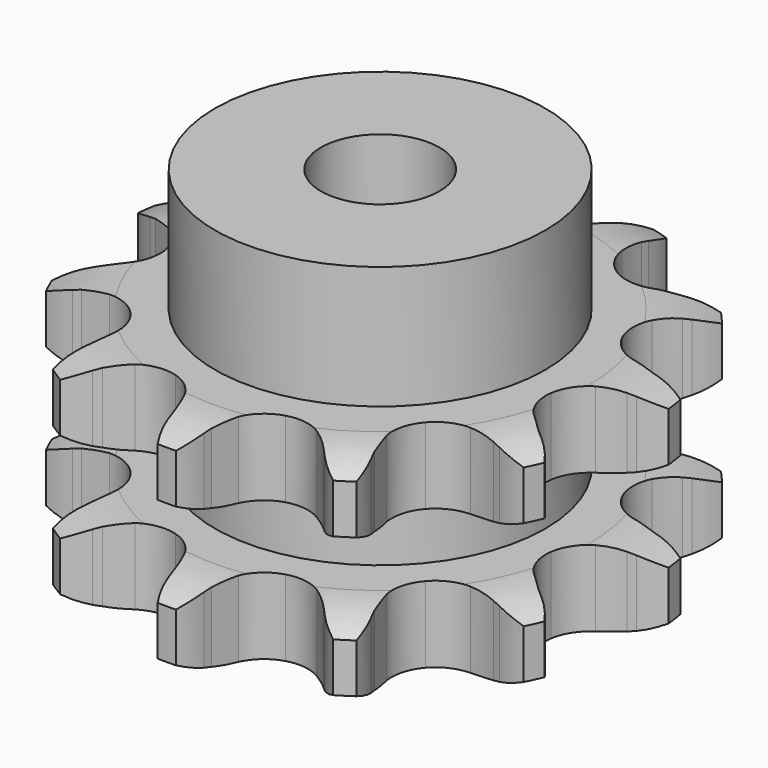
from build123d import *

# Parameters (mm, degrees)
PAD_DEPTH         = 25.5
SKETCH001_R       = 19.5
PAD001_DEPTH      = 40
SKETCH002_R       = 7
POCKET_DEPTH      = 0.001
POCKET_DEPTH_BACK = 40.001


with BuildPart() as part:
    # Sprocket → Pad (new body)
    with BuildSketch(Plane.XY):
        with BuildLine():
            ThreePointArc((-9.271424, 31.575569), (-7.404692, 30.088528), (-6.018207, 28.145944))
            Line((-6.018207, 28.145944), (-5.582333, 27.310258))
            ThreePointArc((-5.582333, 27.310258), (-4.817807, 26.026363), (-3.913797, 24.836551))
            ThreePointArc((-3.913797, 24.836551), (-2.155229, 23.503703), (0, 23.030383))
            ThreePointArc((0, 23.030383), (2.155229, 23.503703), (3.913797, 24.836551))
            ThreePointArc((3.913797, 24.836551), (4.817807, 26.026363), (5.582333, 27.310258))
            Line((5.582333, 27.310258), (6.018207, 28.145944))
            ThreePointArc((6.018207, 28.145944), (7.404692, 30.088528), (9.271424, 31.575569))
            ThreePointArc((9.271424, 31.575569), (10.037863, 29.31536), (10.154008, 26.931564))
            Line((10.154008, 26.931564), (10.068882, 25.992888))
            ThreePointArc((10.068882, 25.992888), (10.017917, 24.499473), (10.135157, 23.009794))
            ThreePointArc((10.135157, 23.009794), (10.893967, 20.937778), (12.451165, 19.374391))
            ThreePointArc((12.451165, 19.374391), (14.520155, 18.607368), (16.720148, 18.777877))
            Line((16.720148, 18.777877), (19.461198, 19.956813))
            ThreePointArc((19.461198, 19.956813), (19.866291, 20.197768), (20.279684, 20.424186))
            ThreePointArc((20.279684, 20.424186), (22.49631, 21.308802), (24.870659, 21.550549))
            ThreePointArc((24.870659, 21.550549), (24.293468, 19.234772), (23.102398, 17.166602))
            Line((23.102398, 17.166602), (22.523299, 16.42296))
            ThreePointArc((22.523299, 16.42296), (21.673023, 15.194173), (20.966271, 13.877591))
            ThreePointArc((20.966271, 13.877591), (20.484406, 11.724256), (20.949173, 9.567167))
            ThreePointArc((20.949173, 9.567167), (22.275035, 7.803326), (24.217971, 6.757361))
            Line((24.217971, 6.757361), (27.161269, 6.267222))
            ThreePointArc((27.161269, 6.267222), (27.632325, 6.250916), (28.102505, 6.217894))
            ThreePointArc((28.102505, 6.217894), (30.445509, 5.763681), (32.573636, 4.683382))
            ThreePointArc((32.573636, 4.683382), (30.836068, 3.047279), (28.715939, 1.951365))
            Line((28.715939, 1.951365), (27.826727, 1.638858))
            ThreePointArc((27.826727, 1.638858), (26.447097, 1.064831), (25.140742, 0.33935))
            ThreePointArc((25.140742, 0.33935), (23.57119, -1.211634), (22.795967, -3.277565))
            ThreePointArc((22.795967, -3.277565), (22.957748, -5.478218), (24.026759, -7.40857))
            Line((24.026759, -7.40857), (26.23783, -9.412168))
            ThreePointArc((26.23783, -9.412168), (26.625292, -9.680558), (27.002979, -9.962536))
            ThreePointArc((27.002979, -9.962536), (28.728473, -11.611367), (29.934714, -13.670726))
            ThreePointArc((29.934714, -13.670726), (27.588435, -14.107703), (25.212373, -13.883416))
            Line((25.212373, -13.883416), (24.295367, -13.665569))
            ThreePointArc((24.295367, -13.665569), (22.824405, -13.402588), (21.333204, -13.306631))
            ThreePointArc((21.333204, -13.306631), (19.174288, -13.762839), (17.405202, -15.081693))
            ThreePointArc((17.405202, -15.081693), (16.351539, -17.020465), (16.207221, -19.222332))
            Line((16.207221, -19.222332), (16.984065, -22.103261))
            ThreePointArc((16.984065, -22.103261), (17.164916, -22.538523), (17.330198, -22.979931))
            ThreePointArc((17.330198, -22.979931), (17.89035, -25.299889), (17.791731, -27.684475))
            ThreePointArc((17.791731, -27.684475), (15.581668, -26.783589), (13.704056, -25.310311))
            Line((13.704056, -25.310311), (13.050398, -24.631275))
            ThreePointArc((13.050398, -24.631275), (11.955125, -23.614779), (10.752526, -22.727852))
            ThreePointArc((10.752526, -22.727852), (8.689685, -21.944439), (6.488409, -22.09749))
            ThreePointArc((6.488409, -22.09749), (4.553831, -23.158836), (3.242004, -24.93314))
            Line((3.242004, -24.93314), (2.337979, -27.776725))
            ThreePointArc((2.337979, -27.776725), (2.254801, -28.240666), (2.155201, -28.701361))
            ThreePointArc((2.155201, -28.701361), (1.372168, -30.955874), (0, -32.908598))
            ThreePointArc((0, -32.908598), (-1.372168, -30.955874), (-2.155201, -28.701361))
            Line((-2.155201, -28.701361), (-2.337979, -27.776725))
            ThreePointArc((-2.337979, -27.776725), (-2.709822, -26.329445), (-3.242004, -24.93314))
            ThreePointArc((-3.242004, -24.93314), (-4.553831, -23.158836), (-6.488409, -22.09749))
            ThreePointArc((-6.488409, -22.09749), (-8.689685, -21.944439), (-10.752526, -22.727852))
            Line((-10.752526, -22.727852), (-13.050398, -24.631275))
            ThreePointArc((-13.050398, -24.631275), (-13.371197, -24.976598), (-13.704056, -25.310311))
            ThreePointArc((-13.704056, -25.310311), (-15.581668, -26.783589), (-17.791731, -27.684475))
            ThreePointArc((-17.791731, -27.684475), (-17.89035, -25.299889), (-17.330198, -22.979931))
            Line((-17.330198, -22.979931), (-16.984065, -22.103261))
            ThreePointArc((-16.984065, -22.103261), (-16.51442, -20.684698), (-16.207221, -19.222332))
            ThreePointArc((-16.207221, -19.222332), (-16.351539, -17.020465), (-17.405202, -15.081693))
            ThreePointArc((-17.405202, -15.081693), (-19.174288, -13.762839), (-21.333204, -13.306631))
            Line((-21.333204, -13.306631), (-24.295367, -13.665569))
            ThreePointArc((-24.295367, -13.665569), (-24.751935, -13.782636), (-25.212373, -13.883416))
            ThreePointArc((-25.212373, -13.883416), (-27.588435, -14.107703), (-29.934714, -13.670726))
            ThreePointArc((-29.934714, -13.670726), (-28.728473, -11.611367), (-27.002979, -9.962536))
            Line((-27.002979, -9.962536), (-26.23783, -9.412168))
            ThreePointArc((-26.23783, -9.412168), (-25.075807, -8.472706), (-24.026759, -7.40857))
            ThreePointArc((-24.026759, -7.40857), (-22.957748, -5.478218), (-22.795967, -3.277565))
            ThreePointArc((-22.795967, -3.277565), (-23.57119, -1.211634), (-25.140742, 0.33935))
            Line((-25.140742, 0.33935), (-27.826727, 1.638858))
            ThreePointArc((-27.826727, 1.638858), (-28.274108, 1.787215), (-28.715939, 1.951365))
            ThreePointArc((-28.715939, 1.951365), (-30.836068, 3.047279), (-32.573636, 4.683382))
            ThreePointArc((-32.573636, 4.683382), (-30.445509, 5.763681), (-28.102505, 6.217894))
            Line((-28.102505, 6.217894), (-27.161269, 6.267222))
            ThreePointArc((-27.161269, 6.267222), (-25.675802, 6.429311), (-24.217971, 6.757361))
            ThreePointArc((-24.217971, 6.757361), (-22.275035, 7.803326), (-20.949173, 9.567167))
            ThreePointArc((-20.949173, 9.567167), (-20.484406, 11.724256), (-20.966271, 13.877591))
            Line((-20.966271, 13.877591), (-22.523299, 16.42296))
            ThreePointArc((-22.523299, 16.42296), (-22.819452, 16.789638), (-23.102398, 17.166602))
            ThreePointArc((-23.102398, 17.166602), (-24.293468, 19.234772), (-24.870659, 21.550549))
            ThreePointArc((-24.870659, 21.550549), (-22.49631, 21.308802), (-20.279684, 20.424186))
            Line((-20.279684, 20.424186), (-19.461198, 19.956813))
            ThreePointArc((-19.461198, 19.956813), (-18.123911, 19.290067), (-16.720148, 18.777877))
            ThreePointArc((-16.720148, 18.777877), (-14.520155, 18.607368), (-12.451165, 19.374391))
            ThreePointArc((-12.451165, 19.374391), (-10.893967, 20.937778), (-10.135157, 23.009794))
            Line((-10.135157, 23.009794), (-10.068882, 25.992888))
            ThreePointArc((-10.068882, 25.992888), (-10.119781, 26.46147), (-10.154008, 26.931564))
            ThreePointArc((-10.154008, 26.931564), (-10.037863, 29.31536), (-9.271424, 31.575569))
        make_face()
    extrude(amount=PAD_DEPTH)

    # Sketch → Groove (revolve, cut)
    with BuildSketch(Plane.XZ):
        with BuildLine():
            ThreePointArc((24.525762, 0), (28.10347, 0.405129), (31.5, 1.6))
            Line((31.5, 1.6), (31.5, 7.4))
            ThreePointArc((31.5, 7.4), (28.10347, 8.594871), (24.525762, 9))
            Line((19.5, 9), (24.525762, 9))
            Line((19.5, 16.5), (19.5, 9))
            Line((24.525762, 16.5), (19.5, 16.5))
            ThreePointArc((24.525762, 16.5), (28.10347, 16.905129), (31.5, 18.1))
            Line((31.5, 18.1), (31.5, 23.9))
            ThreePointArc((31.5, 23.9), (28.10347, 25.094871), (24.525762, 25.5))
            Line((24.525762, 25.5), (34.525762, 25.5))
            Line((34.525762, 25.5), (34.525762, 0))
            Line((24.525762, 0), (34.525762, 0))
        make_face()
    revolve(axis=Axis((0, 0, 0), (0, 0, 1)), mode=Mode.SUBTRACT)

    # Sketch001 → Pad001 (join)
    with BuildSketch(Plane.XY):
        Circle(SKETCH001_R)
    extrude(amount=PAD001_DEPTH)

    # Sketch002 → Pocket (cut, two sides)
    with BuildSketch(Plane.XY) as pocket_sk:
        Circle(SKETCH002_R)
    extrude(amount=-POCKET_DEPTH, mode=Mode.SUBTRACT)
    extrude(pocket_sk.sketch, amount=POCKET_DEPTH_BACK, mode=Mode.SUBTRACT)


solid = part.part
